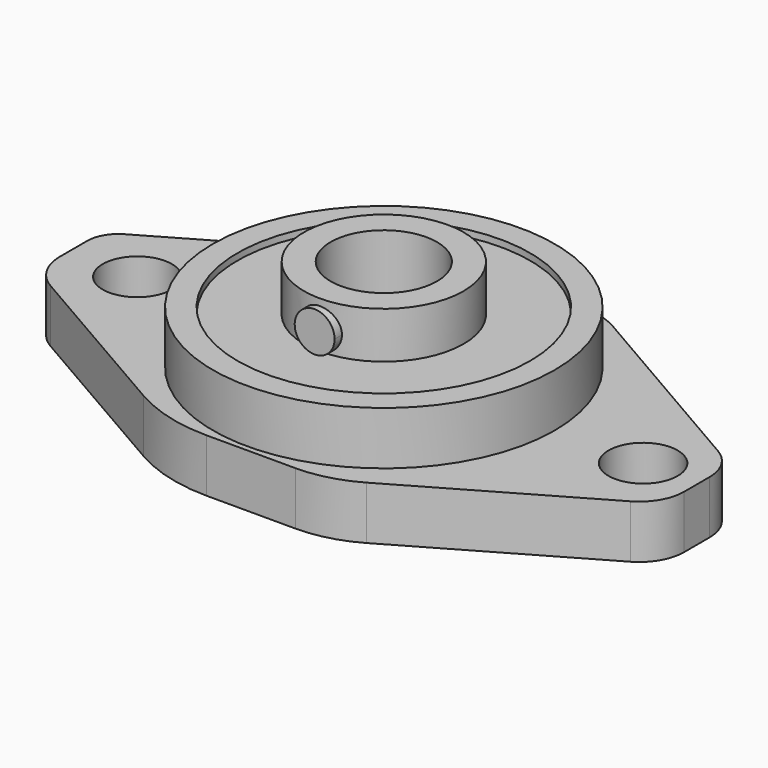
from build123d import *

# Parameters (mm, degrees)
SKETCH_R        = 12.85
PAD_DEPTH       = 4
SKETCH003_R     = 11
POCKET_DEPTH    = 0.5
SKETCH004_R     = 6
PAD001_DEPTH    = 3.5
SKETCH006_R     = 1.5
PAD002_DEPTH    = 6.5
SKETCH005_R     = 4
POCKET001_DEPTH = 7.001
SKETCH007_R     = 2.6
PAD003_DEPTH    = 4
SKETCH008_R     = 4
POCKET002_DEPTH = 4


with BuildPart() as part:
    # Sketch → Pad (new body)
    with BuildSketch(Plane.XY):
        Circle(SKETCH_R)
    extrude(amount=PAD_DEPTH)

    # Sketch003 → Pocket (cut)
    with BuildSketch(Plane.XY.offset(4)):
        Circle(SKETCH003_R)
    extrude(amount=-POCKET_DEPTH, mode=Mode.SUBTRACT)

    # Sketch004 (on Face5 of Pocket) → Pad001 (join)
    with BuildSketch(Plane.XY.offset(3.5)):
        Circle(SKETCH004_R)
    extrude(amount=PAD001_DEPTH)

    # Sketch006 → Pad002 (join)
    with BuildSketch(Plane.XZ):
        with Locations((0, 5)):
            Circle(SKETCH006_R)
    extrude(amount=PAD002_DEPTH)

    # Sketch005 (on Face7 of Pad001) → Pocket001 (cut, through all)
    with BuildSketch(Plane.XY.offset(7)):
        Circle(SKETCH005_R)
    extrude(amount=-POCKET001_DEPTH, mode=Mode.SUBTRACT)

    # Sketch007 → Pad003 (join)
    with BuildSketch(Plane.XY):
        with BuildLine():
            Line((-3.542445, 13.25), (4.373404, 13.25))
            ThreePointArc((7.251161, 12.477086), (5.863276, 13.053407), (4.373404, 13.25))
            Line((7.251161, 12.477086), (21.969939, 3.956011))
            ThreePointArc((23.65, 1.04209), (23.1999, 2.72387), (21.969939, 3.956011))
            Line((23.65, 1.04209), (23.65, -1.322208))
            ThreePointArc((21.959502, -4.246432), (23.196964, -3.011059), (23.65, -1.322208))
            Line((8.3652, -12.074699), (21.959502, -4.246432))
            ThreePointArc((3.969015, -13.25), (6.244305, -12.951104), (8.3652, -12.074699))
            Line((3.969015, -13.25), (-2.715889, -13.25))
            ThreePointArc((-8.759411, -11.630643), (-5.844246, -12.838144), (-2.715889, -13.25))
            Line((-21.777636, -4.114568), (-8.759411, -11.630643))
            ThreePointArc((-23.65, -0.871538), (-23.148302, -2.743902), (-21.777636, -4.114568))
            Line((-23.65, -0.871538), (-23.65, 1.686966))
            ThreePointArc((-22.483817, 3.706854), (-23.337522, 2.853149), (-23.65, 1.686966))
            Line((-8.043592, 12.043921), (-22.483817, 3.706854))
            ThreePointArc((-3.542445, 13.25), (-5.87241, 12.943254), (-8.043592, 12.043921))
        make_face()
        with Locations((-18.5, -0.045589)):
            Circle(SKETCH007_R, mode=Mode.SUBTRACT)
        with Locations((19.5, 0)):
            Circle(SKETCH007_R, mode=Mode.SUBTRACT)
    extrude(amount=-PAD003_DEPTH)

    # Sketch008 → Pocket002 (cut)
    with BuildSketch(Plane.XY):
        Circle(SKETCH008_R)
    extrude(amount=-POCKET002_DEPTH, mode=Mode.SUBTRACT)


solid = part.part
